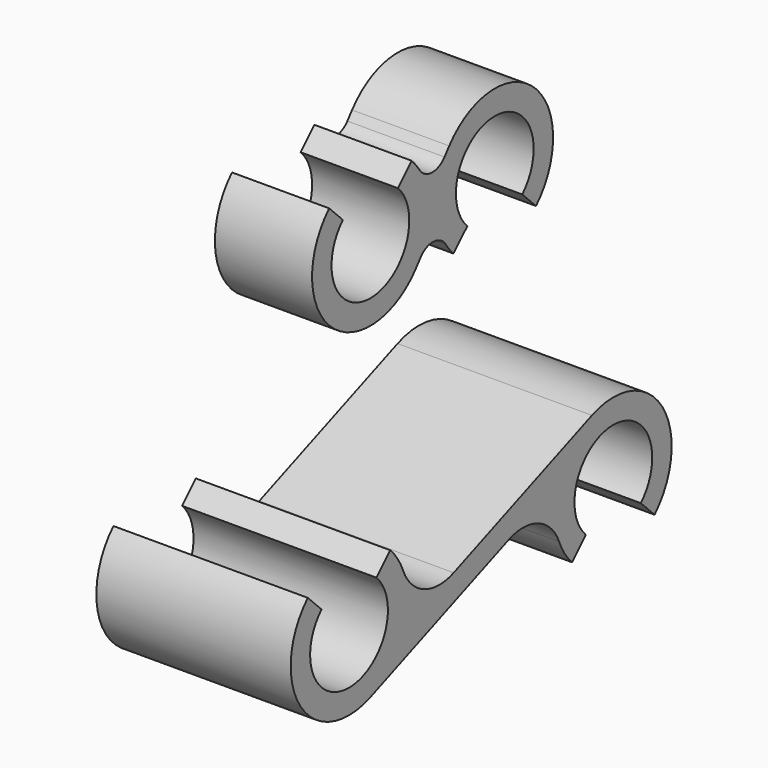
from build123d import *

# Parameters (mm, degrees)
F1_DEPTH = 5
F2_DEPTH = 10


with BuildPart() as f1:
    # F0 (on Right) → F1 (new body, symmetric)
    with BuildSketch(Plane.YZ):
        with BuildLine():
            ThreePointArc((4.464466, 26.464466), (8, 35), (11.535534, 26.464466))
            Line((11.535534, 26.464466), (13.303301, 24.696699))
            ThreePointArc((13.303301, 24.696699), (13.000205, 35.589987), (2.140625, 34.681637))
            Line((2.140625, 34.681637), (1.532877, 33.921001))
            ThreePointArc((1.532877, 33.921001), (-0.128336, 33.171875), (-1.707597, 34.081135))
            ThreePointArc((-1.707597, 34.081135), (-2.170033, 34.718208), (-2.696699, 35.303301))
            Line((-2.696699, 35.303301), (-4.464466, 33.535534))
            ThreePointArc((-4.464466, 33.535534), (-8, 25), (-11.535534, 33.535534))
            Line((-11.535534, 33.535534), (-13.303301, 35.303301))
            ThreePointArc((-13.303301, 35.303301), (-13.000205, 24.410013), (-2.140625, 25.318363))
            Line((-2.140625, 25.318363), (-1.532877, 26.078999))
            ThreePointArc((-1.532877, 26.078999), (0.128336, 26.828125), (1.707597, 25.918865))
            ThreePointArc((1.707597, 25.918865), (2.170033, 25.281792), (2.696699, 24.696699))
            Line((2.696699, 24.696699), (4.464466, 26.464466))
        make_face()
    extrude(amount=F1_DEPTH, both=True)


with BuildPart() as f2:
    # F0 (on Right) → F2 (new body, symmetric)
    with BuildSketch(Plane.YZ):
        with BuildLine():
            ThreePointArc((13.464466, -3.535534), (17, 5), (20.535534, -3.535534))
            Line((20.535534, -3.535534), (22.303301, -5.303301))
            ThreePointArc((22.303301, -5.303301), (23.269612, 4.116062), (14.242647, 6.97474))
            Line((14.242647, 6.97474), (-3.537197, -0.054239))
            ThreePointArc((-3.537197, -0.054239), (-7.363528, 0.007835), (-10.02526, 2.757353))
            ThreePointArc((-10.02526, 2.757353), (-10.730388, 4.116062), (-11.696699, 5.303301))
            Line((-11.696699, 5.303301), (-13.464466, 3.535534))
            ThreePointArc((-13.464466, 3.535534), (-17, -5), (-20.535534, 3.535534))
            Line((-20.535534, 3.535534), (-22.303301, 5.303301))
            ThreePointArc((-22.303301, 5.303301), (-23.269612, -4.116062), (-14.242647, -6.97474))
            Line((-14.242647, -6.97474), (3.537197, 0.054239))
            ThreePointArc((3.537197, 0.054239), (7.363528, -0.007835), (10.02526, -2.757353))
            ThreePointArc((10.02526, -2.757353), (10.730388, -4.116062), (11.696699, -5.303301))
            Line((11.696699, -5.303301), (13.464466, -3.535534))
        make_face()
    extrude(amount=F2_DEPTH, both=True)


solid = Compound([f1.part, f2.part])
